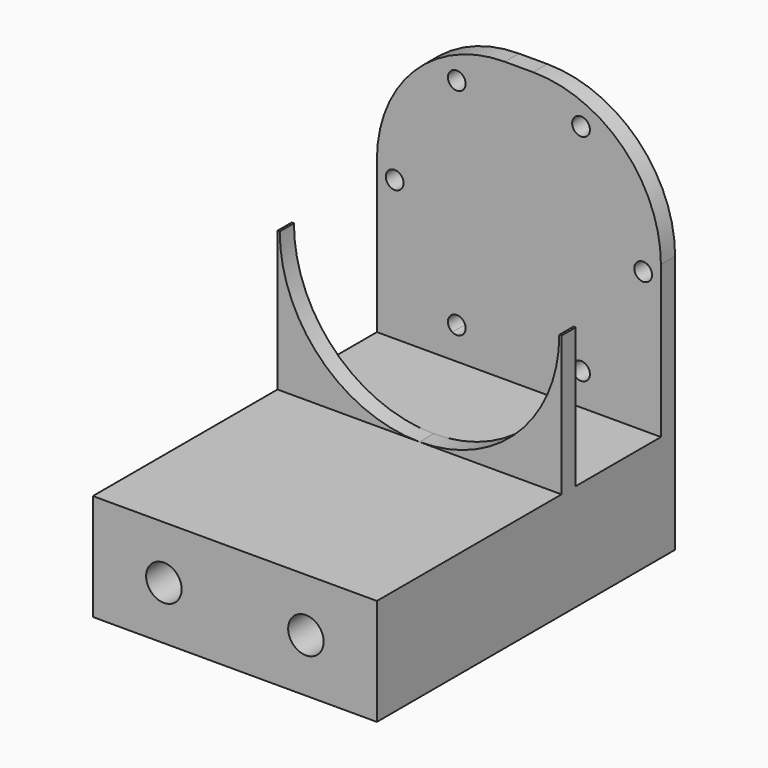
from build123d import *

# Parameters (mm, degrees)
F0_R     = 3.175
F1_DEPTH = 66.675
F2_DEPTH = 25.4
F3_DEPTH = 22.225
F0_R_2   = 1.5875
F4_DEPTH = 3.175
F5_R     = 22.86


with BuildPart() as f1:
    # F0 (on Front) → F1 (new body)
    with BuildSketch(Plane.XZ):
        Polygon((25.4, -25.003125), (0, -25.003125), (-25.4, -25.003125), (-25.4, -34.528125), (-25.4, -44.053125), (25.4, -44.053125), align=None)
        with BuildLine():
            ThreePointArc((-9.525, -34.528125), (-12.7, -37.703125), (-15.875, -34.528125))
            ThreePointArc((-15.875, -34.528125), (-12.7, -31.353125), (-9.525, -34.528125))
        make_face(mode=Mode.SUBTRACT)
        with Locations((12.7, -34.528125)):
            Circle(F0_R, mode=Mode.SUBTRACT)
    extrude(amount=F1_DEPTH)

    # F0 (on Front) → F2 (join)
    with BuildSketch(Plane.XZ):
        with BuildLine():
            Line((-25.4, -25.003125), (0, -25.003125))
            ThreePointArc((0, -25.003125), (-17.6798792384, -17.6798792384), (-25.003125, 0))
            Line((-25.003125, 0), (-25.4, 0))
            Line((-25.4, 0), (-25.4, -25.003125))
        make_face()
        with BuildLine():
            Line((25.4, 0), (25.003125, 0))
            ThreePointArc((25.003125, 0), (17.6798792384, -17.6798792384), (0, -25.003125))
            Line((0, -25.003125), (25.4, -25.003125))
            Line((25.4, -25.003125), (25.4, 0))
        make_face()
    extrude(amount=F2_DEPTH)

    # F0 (on Front) → F3 (cut)
    with BuildSketch(Plane.XZ):
        with BuildLine():
            Line((-25.4, -25.003125), (0, -25.003125))
            ThreePointArc((0, -25.003125), (-17.6798792384, -17.6798792384), (-25.003125, 0))
            Line((-25.003125, 0), (-25.4, 0))
            Line((-25.4, 0), (-25.4, -25.003125))
        make_face()
        with BuildLine():
            Line((25.4, 0), (25.003125, 0))
            ThreePointArc((25.003125, 0), (17.6798792384, -17.6798792384), (0, -25.003125))
            Line((0, -25.003125), (25.4, -25.003125))
            Line((25.4, -25.003125), (25.4, 0))
        make_face()
    extrude(amount=F3_DEPTH, mode=Mode.SUBTRACT)

    # F0 (on Front) → F4 (join)
    with BuildSketch(Plane.XZ):
        with BuildLine():
            ThreePointArc((11.906250128, -20.6222298537), (20.6222299646, -11.906249936), (23.8125, 0))
            ThreePointArc((23.8125, 0), (20.6222299411, 11.9062499767), (11.9062500466, 20.6222299007))
            ThreePointArc((11.9062500466, 20.6222299007), (3.75e-08, 23.8125), (-11.9062499816, 20.6222299383))
            ThreePointArc((-11.9062499816, 20.6222299383), (-20.6222299223, 11.9062500092), (-23.8125, 0))
            ThreePointArc((-23.8125, 0), (-20.622229928, -11.9062499993), (-11.9062500014, -20.6222299268))
            ThreePointArc((-11.9062500014, -20.6222299268), (7.31e-08, -23.8125), (11.906250128, -20.6222298537))
        make_face()
        with BuildLine():
            ThreePointArc((-9.525, -19.2474145991), (-10.3187500007, -20.622229928), (-11.9062500014, -20.6222299268))
            ThreePointArc((-11.9062500014, -20.6222299268), (-11.9062499993, -17.8725992702), (-9.525, -19.2474145991))
        make_face(mode=Mode.SUBTRACT)
        with BuildLine():
            ThreePointArc((12.7, -19.2474145991), (12.4873153655, -20.0411645351), (11.906250128, -20.6222298537))
            ThreePointArc((11.906250128, -20.6222298537), (9.7376846345, -18.4536646631), (12.7, -19.2474145991))
        make_face(mode=Mode.SUBTRACT)
        with BuildLine():
            ThreePointArc((-20.6375, 0), (-22.225, -1.5875), (-23.8125, 0))
            ThreePointArc((-23.8125, 0), (-22.225, 1.5875), (-20.6375, 0))
        make_face(mode=Mode.SUBTRACT)
        with BuildLine():
            ThreePointArc((-9.525, 19.2474145991), (-11.9062500092, 17.8725992759), (-11.9062499816, 20.6222299383))
            ThreePointArc((-11.9062499816, 20.6222299383), (-10.3187499908, 20.6222299223), (-9.525, 19.2474145991))
        make_face(mode=Mode.SUBTRACT)
        with Locations((22.225, 0)):
            Circle(F0_R_2, mode=Mode.SUBTRACT)
        with BuildLine():
            ThreePointArc((12.7, 19.2474145991), (9.737684658, 18.4536646224), (11.9062500466, 20.6222299007))
            ThreePointArc((11.9062500466, 20.6222299007), (12.487315342, 20.0411645758), (12.7, 19.2474145991))
        make_face(mode=Mode.SUBTRACT)
        with BuildLine():
            Line((23.8125, 0), (25.003125, 0))
            ThreePointArc((25.003125, 0), (17.6798792384, 17.6798792384), (0, 25.003125))
            ThreePointArc((0, 25.003125), (-17.6798792384, 17.6798792384), (-25.003125, 0))
            Line((-25.003125, 0), (-23.8125, 0))
            ThreePointArc((-23.8125, 0), (-20.6222299223, 11.9062500092), (-11.9062499816, 20.6222299383))
            ThreePointArc((-11.9062499816, 20.6222299383), (3.75e-08, 23.8125), (11.9062500466, 20.6222299007))
            ThreePointArc((11.9062500466, 20.6222299007), (20.6222299411, 11.9062499767), (23.8125, 0))
        make_face()
        with BuildLine():
            Line((25.4, 0), (25.003125, 0))
            ThreePointArc((25.003125, 0), (17.6798792384, -17.6798792384), (0, -25.003125))
            Line((0, -25.003125), (25.4, -25.003125))
            Line((25.4, -25.003125), (25.4, 0))
        make_face()
        with BuildLine():
            Line((-25.4, -25.003125), (0, -25.003125))
            ThreePointArc((0, -25.003125), (-17.6798792384, -17.6798792384), (-25.003125, 0))
            Line((-25.003125, 0), (-25.4, 0))
            Line((-25.4, 0), (-25.4, -25.003125))
        make_face()
        with BuildLine():
            ThreePointArc((0, 25.003125), (17.6798792384, 17.6798792384), (25.003125, 0))
            Line((25.003125, 0), (25.4, 0))
            Line((25.4, 0), (25.4, 25.003125))
            Line((25.4, 25.003125), (0, 25.003125))
        make_face()
        with BuildLine():
            ThreePointArc((-25.003125, 0), (-17.6798792384, 17.6798792384), (0, 25.003125))
            Line((0, 25.003125), (-25.4, 25.003125))
            Line((-25.4, 25.003125), (-25.4, 0))
            Line((-25.4, 0), (-25.003125, 0))
        make_face()
        with BuildLine():
            ThreePointArc((0, -25.003125), (17.6798792384, -17.6798792384), (25.003125, 0))
            Line((25.003125, 0), (23.8125, 0))
            ThreePointArc((23.8125, 0), (20.6222299646, -11.906249936), (11.906250128, -20.6222298537))
            ThreePointArc((11.906250128, -20.6222298537), (7.31e-08, -23.8125), (-11.9062500014, -20.6222299268))
            ThreePointArc((-11.9062500014, -20.6222299268), (-20.622229928, -11.9062499993), (-23.8125, 0))
            Line((-23.8125, 0), (-25.003125, 0))
            ThreePointArc((-25.003125, 0), (-17.6798792384, -17.6798792384), (0, -25.003125))
        make_face()
    extrude(amount=F4_DEPTH)

    # F5
    f5_edges = [f1.edges().sort_by_distance(p)[0] for p in [
        (25.4, -1.5875, 25.003125),
        (-25.4, -1.5875, 25.003125),
    ]]
    fillet(f5_edges, radius=F5_R)


solid = f1.part
